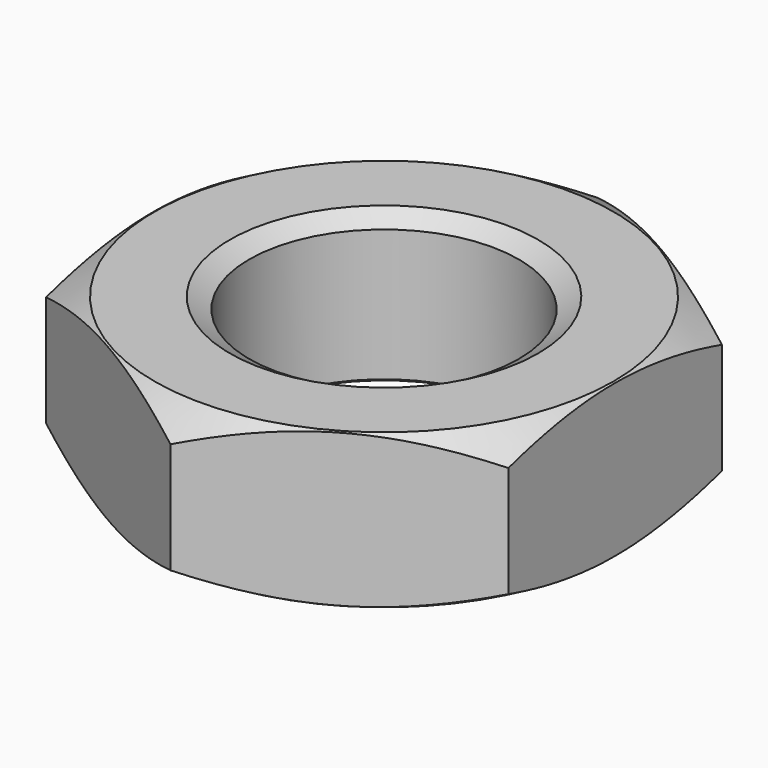
from build123d import *

# Parameters (mm, degrees)
SKETCH001_R  = 18
POCKET_DEPTH = 10


with BuildPart() as part:
    # Sketch → Revolution (revolve)
    with BuildSketch(Plane.XZ):
        Polygon((10, 0), (8.75, 0.721688), (8.75, 9.278312), (10, 10), (14.9, 10), (18, 8.210214), (18, 1.789786), (14.9, 0), align=None)
    revolve(axis=Axis((0, 0, 0), (0, 0, 1)))

    # Sketch001 → Pocket (cut)
    with BuildSketch(Plane(origin=(0, 0, 10), x_dir=(-1, 0, 0), z_dir=(0, 0, 1))):
        Circle(SKETCH001_R)
        Polygon((-15, 8.660254), (-15, -8.660254), (0, -17.320508), (15, -8.660254), (15, 8.660254), (0, 17.320508), align=None, mode=Mode.SUBTRACT)
    extrude(amount=-POCKET_DEPTH, mode=Mode.SUBTRACT)


solid = part.part
